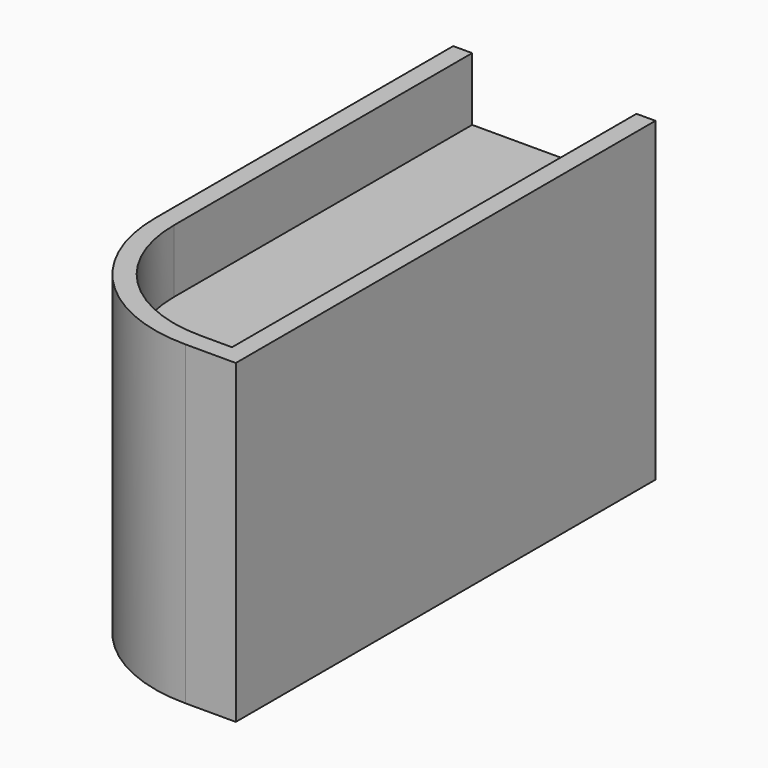
from build123d import *

# Parameters (mm, degrees)
PAD_DEPTH    = 50
POCKET_DEPTH = 10


with BuildPart() as part:
    # Sketch → Pad (new body)
    with BuildSketch(Plane.XY):
        with BuildLine():
            Line((32, 0), (32, 83))
            Line((32, 83), (0, 83))
            Line((0, 83), (0, 24))
            ThreePointArc((0, 24), (7.029437, 7.029437), (24, 0))
            Line((32, 0), (24, 0))
        make_face()
    extrude(amount=PAD_DEPTH)

    # Sketch001 (on Face7 of Pad) → Pocket (cut)
    with BuildSketch(Plane.XY.offset(50)):
        with BuildLine():
            Line((3, 86), (3, 24))
            ThreePointArc((3, 24), (9.150758, 9.150758), (24, 3))
            Line((24, 3), (29, 3))
            Line((29, 86), (29, 3))
            Line((3, 86), (29, 86))
        make_face()
    extrude(amount=-POCKET_DEPTH, mode=Mode.SUBTRACT)


solid = part.part
